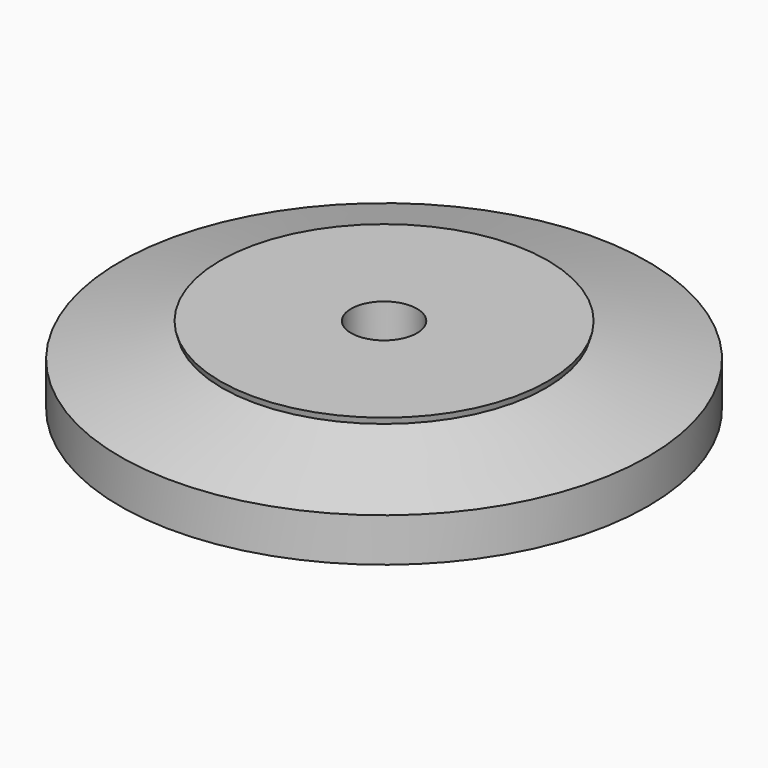
from build123d import *

# Parameters (mm, degrees)
F0_W = 5
F0_H = 1.6
F3_D = 5
F4_R = 20


with BuildPart() as f1:
    # F0 (on Front) → F1 (revolve)
    with BuildSketch(Plane.XZ):
        Polygon((0, 8), (0, 1.6), (5, 1.6), (10, 1.6), (10, 0), (12, 0), (20, 2.1435935394), (20, 5.446484726), (12.2725933897, 7.5170370869), (10.4701512597, 8), align=None)
        with Locations((2.5, 0.8)):
            Rectangle(F0_W, F0_H)
        Polygon((12.4020029122, 8), (10.4701512597, 8), (12.2725933897, 7.5170370869), align=None)
        with Locations((7.5, 0.8)):
            Rectangle(F0_W, F0_H)
    revolve(axis=Axis((0, 0, 4), (0, 0, 1)))

    # F3 (through all)
    with Locations(Plane.XY.offset(8)):
        with Locations((0, 0)):
            Hole(F3_D / 2)

    # F4
    f4_edges = [f1.edges().sort_by_distance(p)[0] for p in [
        (-12, 0, 0),
    ]]
    fillet(f4_edges, radius=F4_R)


solid = f1.part
